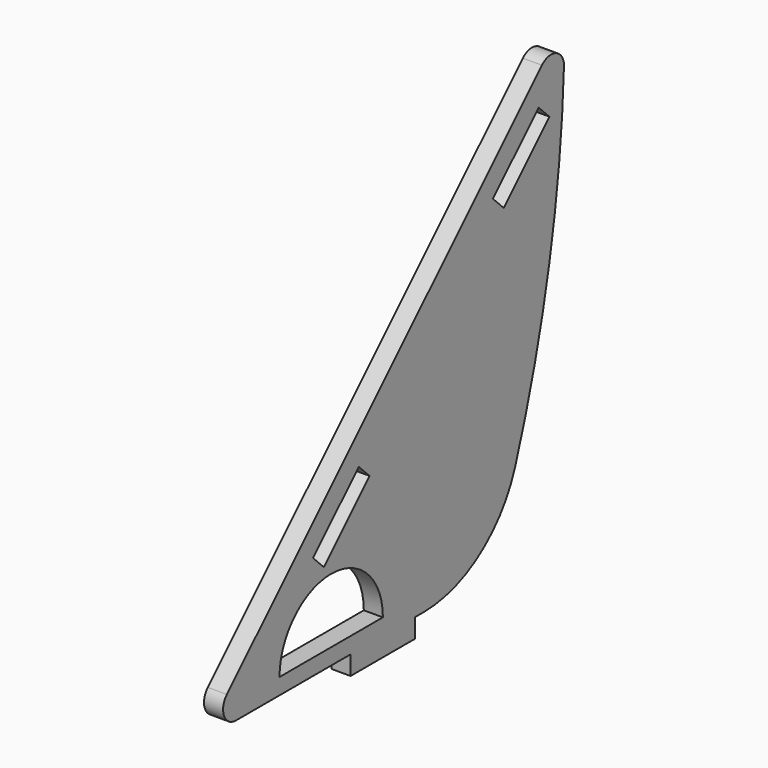
from build123d import *

# Parameters (mm, degrees)
F1_DEPTH = 3
F2_R     = 19.05
F3_R     = 2.54
F5_DEPTH = 3
F7_DEPTH = 3


with BuildPart() as f1:
    # F0 (on Right) → F1 (new body)
    with BuildSketch(Plane.YZ):
        with BuildLine():
            Line((70.710678, 70.710678), (0, 0))
            Line((0, 0), (28.65, 0))
            Line((28.65, 0), (28.65, -3))
            Line((28.65, -3), (41.35, -3))
            Line((41.35, -3), (41.35, 0))
            Line((41.35, 0), (56.030339, 0))
            ThreePointArc((56.030339, 0), (67.001876, 34.601426), (70.710678, 70.710678))
        make_face()
    extrude(amount=F1_DEPTH)

    # F2
    f2_edges = [f1.edges().sort_by_distance(p)[0] for p in [
        (1.5, 56.030339, 0),
    ]]
    fillet(f2_edges, radius=F2_R)

    # F3
    f3_edges = [f1.edges().sort_by_distance(p)[0] for p in [
        (1.5, 70.710678, 70.710678),
        (1.5, 0, 0),
    ]]
    fillet(f3_edges, radius=F3_R)

    # F4 (on face) → F5 (cut, through all)
    with BuildSketch(Plane.YZ.offset(3)):
        Polygon((30.257099, 25.307352), (21.276843, 16.327096), (23.398163, 14.205775), (32.37842, 23.186031), align=None)
        Polygon((65.612438, 60.662691), (56.632182, 51.682435), (58.753502, 49.561114), (67.733759, 58.54137), align=None)
    extrude(amount=-F5_DEPTH, mode=Mode.SUBTRACT)

    # F6 (on face) → F7 (cut, through all)
    with BuildSketch(Plane.YZ.offset(3)):
        with BuildLine():
            Line((14.68, 2.54), (35, 2.54))
            ThreePointArc((35, 2.54), (24.84, 12.7), (14.68, 2.54))
        make_face()
    extrude(amount=-F7_DEPTH, mode=Mode.SUBTRACT)


solid = f1.part
